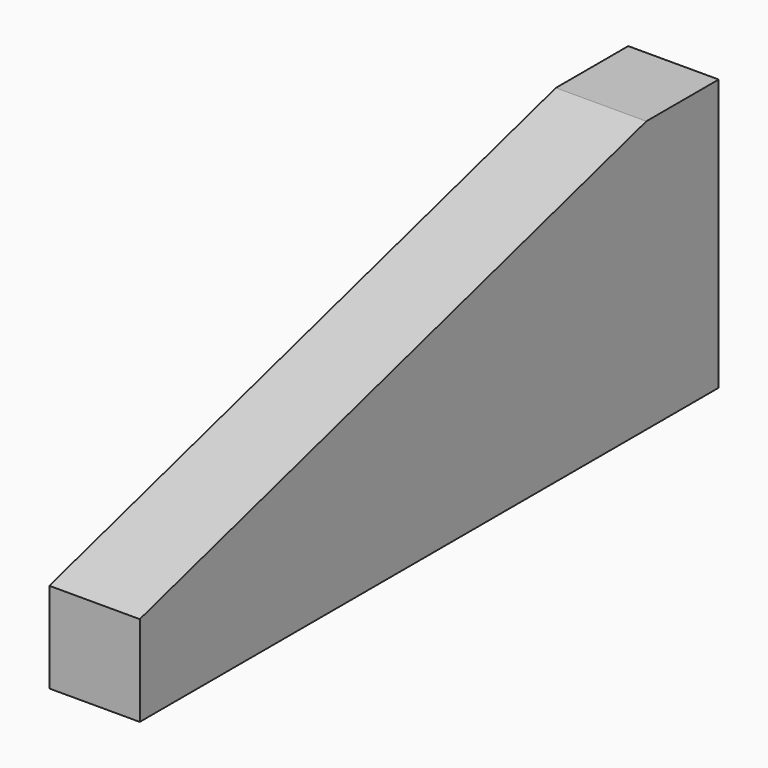
from build123d import *

# Parameters (mm, degrees)
F0_W     = 25
F0_H     = 50
F1_DEPTH = 25


with BuildPart() as f1:
    # F0 (on Right) → F1 (new body)
    with BuildSketch(Plane.YZ):
        Polygon((-200, 0), (0, 0), (0, 25), (-25, 25), (-200, 25), align=None)
        with Locations((-12.5, 50)):
            Rectangle(F0_W, F0_H)
        Polygon((-25, 75), (-200, 25), (-25, 25), align=None)
    extrude(amount=F1_DEPTH)


solid = f1.part
